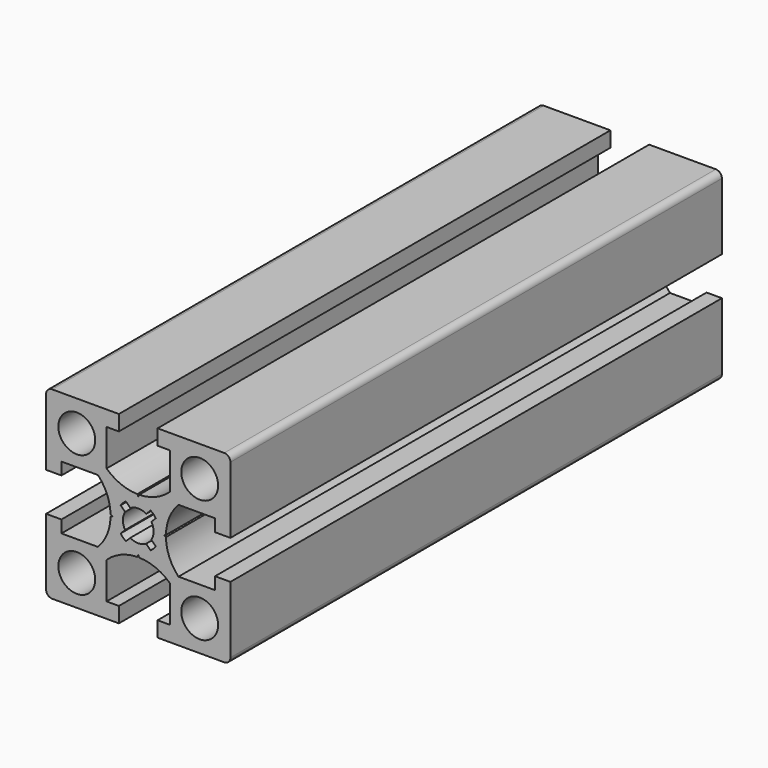
from build123d import *

# Parameters (mm, degrees)
F0_R     = 3
F1_DEPTH = 100
F2_R     = 1


with BuildPart() as f1:
    # F0 (on Front) → F1 (new body)
    with BuildSketch(Plane.XZ):
        with BuildLine():
            Line((-3.15, 15), (-15, 15))
            Line((-15, 15), (-15, 3.15))
            Line((-15, 3.15), (-12.5, 3.15))
            Line((-12.5, 3.15), (-12.5, 5.15))
            Line((-12.5, 5.15), (-6.547707, 5.15))
            ThreePointArc((-6.547707, 5.15), (-5.058764, 2.840641), (-4.5015, 0.15))
            Line((-4.5015, 0.15), (-4.2, 0))
            Line((-4.2, 0), (-4.5015, -0.15))
            ThreePointArc((-4.5015, -0.15), (-5.058764, -2.840641), (-6.547707, -5.15))
            Line((-6.547707, -5.15), (-12.5, -5.15))
            Line((-12.5, -5.15), (-12.5, -3.15))
            Line((-12.5, -3.15), (-15, -3.15))
            Line((-15, -3.15), (-15, -15))
            Line((-15, -15), (-3.15, -15))
            Line((-3.15, -15), (-3.15, -12.5))
            Line((-3.15, -12.5), (-5.15, -12.5))
            Line((-5.15, -12.5), (-5.15, -6.547707))
            ThreePointArc((-5.15, -6.547707), (-2.840641, -5.058764), (-0.15, -4.5015))
            Line((-0.15, -4.5015), (0, -4.2))
            Line((0, -4.2), (0.15, -4.5015))
            ThreePointArc((0.15, -4.5015), (2.840641, -5.058764), (5.15, -6.547707))
            Line((5.15, -6.547707), (5.15, -12.5))
            Line((5.15, -12.5), (3.15, -12.5))
            Line((3.15, -12.5), (3.15, -15))
            Line((3.15, -15), (15, -15))
            Line((15, -15), (15, -3.15))
            Line((15, -3.15), (12.5, -3.15))
            Line((12.5, -3.15), (12.5, -5.15))
            Line((12.5, -5.15), (6.547707, -5.15))
            ThreePointArc((6.547707, -5.15), (5.058764, -2.840641), (4.5015, -0.15))
            Line((4.5015, -0.15), (4.2, 0))
            Line((4.2, 0), (4.5015, 0.15))
            ThreePointArc((4.5015, 0.15), (5.058764, 2.840641), (6.547707, 5.15))
            Line((6.547707, 5.15), (12.5, 5.15))
            Line((12.5, 5.15), (12.5, 3.15))
            Line((12.5, 3.15), (15, 3.15))
            Line((15, 3.15), (15, 15))
            Line((15, 15), (3.15, 15))
            Line((3.15, 15), (3.15, 12.5))
            Line((3.15, 12.5), (5.15, 12.5))
            Line((5.15, 12.5), (5.15, 6.547707))
            ThreePointArc((5.15, 6.547707), (2.840641, 5.058764), (0.15, 4.5015))
            Line((0.15, 4.5015), (0, 4.2))
            Line((0, 4.2), (-0.15, 4.5015))
            ThreePointArc((-0.15, 4.5015), (-2.840641, 5.058764), (-5.15, 6.547707))
            Line((-5.15, 6.547707), (-5.15, 12.5))
            Line((-5.15, 12.5), (-3.15, 12.5))
            Line((-3.15, 12.5), (-3.15, 15))
        make_face()
        with Locations((-10, -10)):
            Circle(F0_R, mode=Mode.SUBTRACT)
        with Locations((10, -10)):
            Circle(F0_R, mode=Mode.SUBTRACT)
        with BuildLine():
            ThreePointArc((-2.140364, -1.291836), (-2.5, 0), (-2.140364, 1.291836))
            Line((-2.140364, 1.291836), (-2.862501, 2.013973))
            ThreePointArc((-2.862501, 2.013973), (-2.474874, 2.474874), (-2.013973, 2.862501))
            Line((-2.013973, 2.862501), (-1.291836, 2.140364))
            ThreePointArc((-1.291836, 2.140364), (0, 2.5), (1.291836, 2.140364))
            Line((1.291836, 2.140364), (2.013973, 2.862501))
            ThreePointArc((2.013973, 2.862501), (2.474874, 2.474874), (2.862501, 2.013973))
            Line((2.862501, 2.013973), (2.140364, 1.291836))
            ThreePointArc((2.140364, 1.291836), (2.5, 0), (2.140364, -1.291836))
            Line((2.140364, -1.291836), (2.862501, -2.013973))
            ThreePointArc((2.862501, -2.013973), (2.474874, -2.474874), (2.013973, -2.862501))
            Line((2.013973, -2.862501), (1.291836, -2.140364))
            ThreePointArc((1.291836, -2.140364), (0, -2.5), (-1.291836, -2.140364))
            Line((-1.291836, -2.140364), (-2.013973, -2.862501))
            ThreePointArc((-2.013973, -2.862501), (-2.474874, -2.474874), (-2.862501, -2.013973))
            Line((-2.862501, -2.013973), (-2.140364, -1.291836))
        make_face(mode=Mode.SUBTRACT)
        with Locations((-10, 10)):
            Circle(F0_R, mode=Mode.SUBTRACT)
        with Locations((10, 10)):
            Circle(F0_R, mode=Mode.SUBTRACT)
    extrude(amount=-F1_DEPTH)

    # F2
    f2_edges = [f1.edges().sort_by_distance(p)[0] for p in [
        (15, 50, 15),
        (-15, 50, 15),
        (-15, 50, -15),
        (15, 50, -15),
    ]]
    fillet(f2_edges, radius=F2_R)


solid = f1.part
